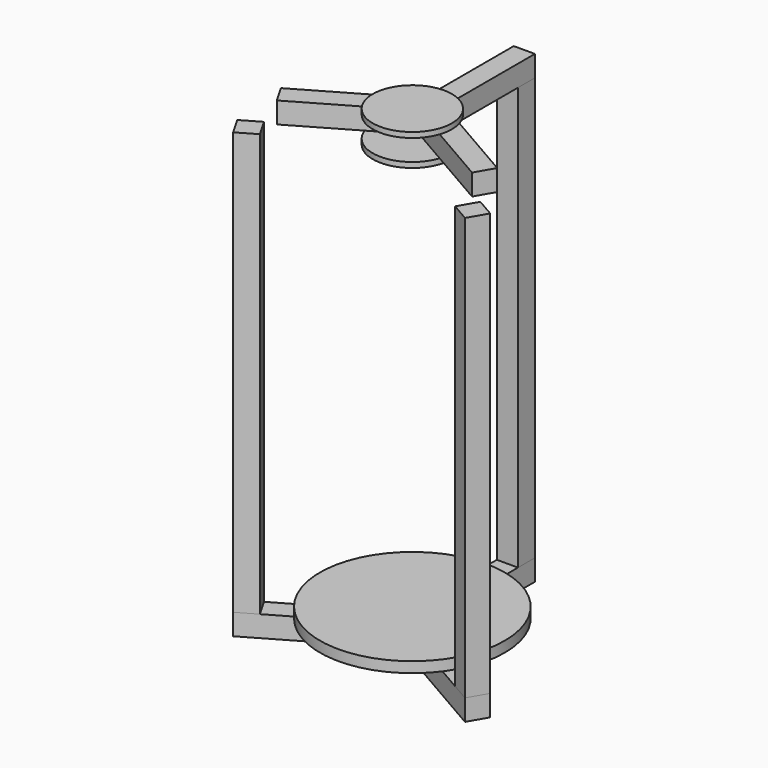
from build123d import *

# Parameters (mm, degrees)
F0_W      = 20
F0_H      = 40
F1_DEPTH  = 800
F2_DEPTH  = 20
F3_W      = 40
F3_H      = 253.4529946162
F4_DEPTH  = 40
F5_DEPTH  = 800
F8_DEPTH  = 40
F7_W      = 40
F7_H      = 213.4529946162
F10_R     = 75
F11_DEPTH = 10
F12_R     = 75
F13_DEPTH = 10
F15_R     = 75
F16_DEPTH = 10


with BuildPart() as f1:
    # F0 (on Top) → F1 (new body)
    with BuildSketch(Plane.XY):
        with Locations((-10, 245)):
            Rectangle(F0_W, F0_H)
        with Locations((10, 245)):
            Rectangle(F0_W, F0_H)
    extrude(amount=F1_DEPTH)


with BuildPart() as f2:
    # F0 (on Top) → F2 (new body)
    with BuildSketch(Plane.XY):
        with BuildLine():
            Line((0, 0), (0, 175))
            ThreePointArc((0, 175), (-151.5544456623, 87.5), (-151.5544456623, -87.5))
            Line((-151.5544456623, -87.5), (0, 0))
        make_face()
        with BuildLine():
            ThreePointArc((151.5544456623, -87.5), (169.0370196006, -45.2933328929), (175, 0))
            ThreePointArc((175, 0), (123.7436867076, 123.7436867076), (0, 175))
            Line((0, 175), (0, 0))
            Line((0, 0), (151.5544456623, -87.5))
        make_face()
        with BuildLine():
            ThreePointArc((-151.5544456623, -87.5), (0, -175), (151.5544456623, -87.5))
            Line((151.5544456623, -87.5), (0, 0))
            Line((0, 0), (-151.5544456623, -87.5))
        make_face()
    extrude(amount=F2_DEPTH)


with BuildPart() as f4:
    # F3 (on Top) → F4 (new body)
    with BuildSketch(Plane.XY):
        with Locations((0, 138.2735026919)):
            Rectangle(F3_W, F3_H)
    extrude(amount=-F4_DEPTH)


with BuildPart() as f4b:
    # F3 (on Top) → F4, piece 2 (new body)
    with BuildSketch(Plane.XY):
        Polygon((239.4967320029, -115.1794919243), (20, 11.5470053838), (0, -23.0940107676), (219.4967320029, -149.8205080757), align=None)
    extrude(amount=-F4_DEPTH)


with BuildPart() as f4c:
    # F3 (on Top) → F4, piece 3 (new body)
    with BuildSketch(Plane.XY):
        Polygon((0, -23.0940107676), (-20, 11.5470053838), (-239.4967320029, -115.1794919243), (-219.4967320029, -149.8205080757), align=None)
    extrude(amount=-F4_DEPTH)


with BuildPart() as f5:
    # F0 (on Top) → F5 (new body)
    with BuildSketch(Plane.XY):
        Polygon((-229.4967320029, -132.5), (-194.8557158515, -112.5), (-204.8557158515, -95.1794919243), (-239.4967320029, -115.1794919243), align=None)
        Polygon((-184.8557158515, -129.8205080757), (-194.8557158515, -112.5), (-229.4967320029, -132.5), (-219.4967320029, -149.8205080757), align=None)
    extrude(amount=F5_DEPTH)


with BuildPart() as f5b:
    # F0 (on Top) → F5, piece 2 (new body)
    with BuildSketch(Plane.XY):
        Polygon((229.4967320029, -132.5), (194.8557158515, -112.5), (184.8557158515, -129.8205080757), (219.4967320029, -149.8205080757), align=None)
        Polygon((204.8557158515, -95.1794919243), (194.8557158515, -112.5), (229.4967320029, -132.5), (239.4967320029, -115.1794919243), align=None)
    extrude(amount=F5_DEPTH)


with BuildPart() as f8:
    # F7 (on offset) → F8 (new body)
    with BuildSketch(Plane.XY.offset(800)):
        Polygon((0, 16.9059892324), (-20, 51.5470053838), (-204.8557158515, -55.1794919243), (-184.8557158515, -89.8205080757), align=None)
    extrude(amount=F8_DEPTH)


with BuildPart() as f8b:
    # F7 (on offset) → F8, piece 2 (new body)
    with BuildSketch(Plane.XY.offset(800)):
        with Locations((0, 158.2735026919)):
            Rectangle(F7_W, F7_H)
    extrude(amount=F8_DEPTH)


with BuildPart() as f8c:
    # F7 (on offset) → F8, piece 3 (new body)
    with BuildSketch(Plane.XY.offset(800)):
        Polygon((204.8557158515, -55.1794919243), (20, 51.5470053838), (0, 16.9059892324), (184.8557158515, -89.8205080757), align=None)
    extrude(amount=F8_DEPTH)


with BuildPart() as f11:
    # F10 (on offset) → F11 (new body)
    with BuildSketch(Plane.XY.offset(840)):
        Circle(F10_R)
    extrude(amount=F11_DEPTH)


with BuildPart() as f13:
    # F12 (on offset) → F13 (new body)
    with BuildSketch(Plane.XY.offset(800)):
        Circle(F12_R)
    extrude(amount=-F13_DEPTH)


with BuildPart() as f16:
    # F15 (on offset) → F16 (new body)
    with BuildSketch(Plane(origin=(0, 0, -40), x_dir=(1, 0, 0), z_dir=(0, 0, -1))):
        Circle(F15_R)
    extrude(amount=F16_DEPTH)


solid = Compound([f1.part, f2.part, f4.part, f4b.part, f4c.part, f5.part, f5b.part, f8.part, f8b.part, f8c.part, f11.part, f13.part, f16.part])
